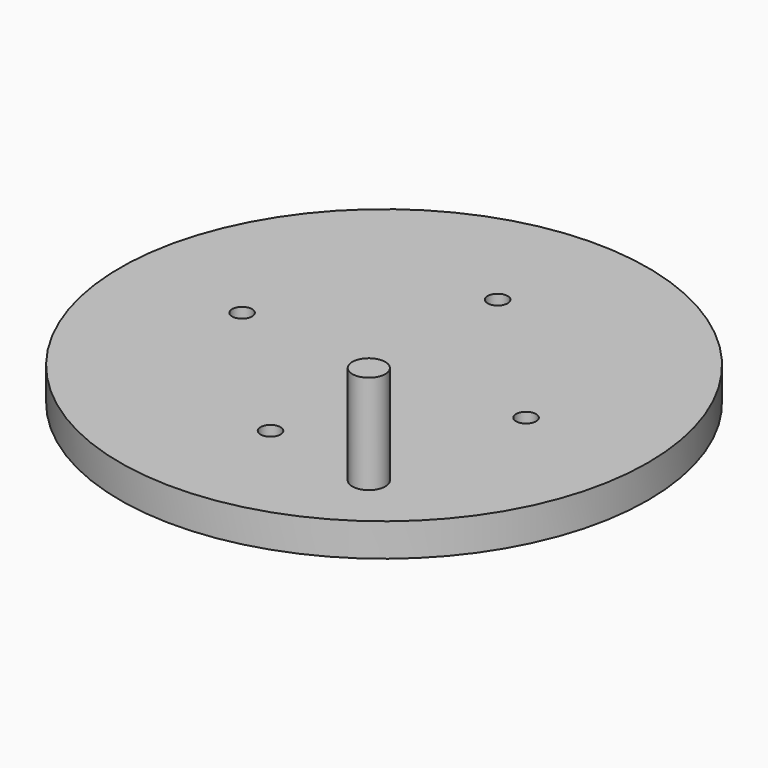
from build123d import *

# Parameters (mm, degrees)
F0_R     = 40
F0_R_2   = 1.515
F0_R_3   = 2.5
F1_DEPTH = 5
F2_DEPTH = 20


with BuildPart() as f1:
    # F0 (on Top) → F1 (new body)
    with BuildSketch(Plane.XY):
        Circle(F0_R)
        with Locations((0, -21.515)):
            Circle(F0_R_2, mode=Mode.SUBTRACT)
        with Locations((17.030027, -24.180317)):
            Circle(F0_R_3, mode=Mode.SUBTRACT)
        with Locations((-21.515, 0)):
            Circle(F0_R_2, mode=Mode.SUBTRACT)
        with Locations((21.515, 0)):
            Circle(F0_R_2, mode=Mode.SUBTRACT)
        with Locations((0, 21.515)):
            Circle(F0_R_2, mode=Mode.SUBTRACT)
    extrude(amount=F1_DEPTH)

    # F0 (on Top) → F2 (join)
    with BuildSketch(Plane.XY):
        with Locations((17.030027, -24.180317)):
            Circle(F0_R_3)
    extrude(amount=F2_DEPTH)


solid = f1.part
